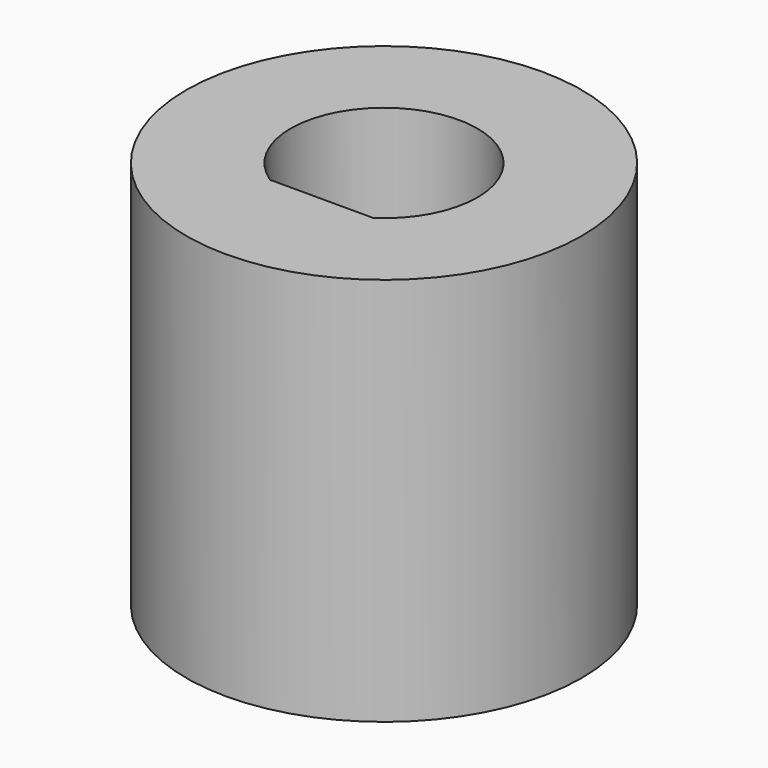
from build123d import *

# Parameters (mm, degrees)
F0_R     = 6.35
F1_DEPTH = 12.5


with BuildPart() as f1:
    # F0 (on Top) → F1 (new body)
    with BuildSketch(Plane.XY):
        Circle(F0_R)
        with BuildLine():
            ThreePointArc((-1.658312, -2.5), (0, 3), (1.658312, -2.5))
            Line((1.658312, -2.5), (-1.658312, -2.5))
        make_face(mode=Mode.SUBTRACT)
    extrude(amount=F1_DEPTH)


solid = f1.part
